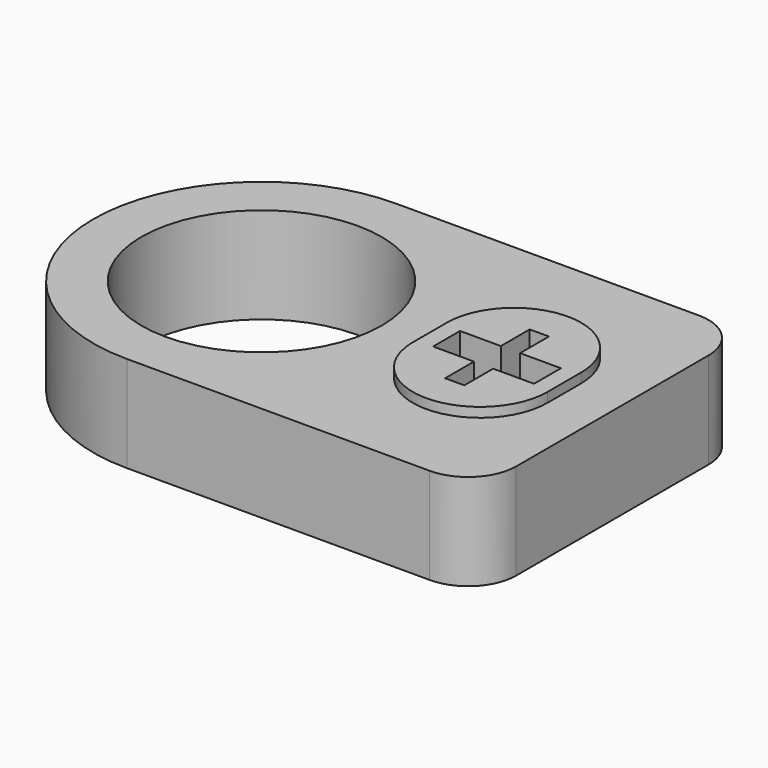
from build123d import *

# Parameters (mm, degrees)
F0_R     = 12.5
F1_DEPTH = 10
F3_DEPTH = 1
F4_DEPTH = 9


with BuildPart() as f1:
    # F0 (on Top) → F1 (new body)
    with BuildSketch(Plane.XY):
        with BuildLine():
            ThreePointArc((0, 17.5), (5.1256313292, 5.1256313292), (17.5, 0))
            Line((17.5, 0), (49, 0))
            ThreePointArc((49, 0), (52.5355339059, 1.4644660941), (54, 5))
            Line((54, 5), (54, 30))
            ThreePointArc((54, 30), (52.5355339059, 33.5355339059), (49, 35))
            Line((49, 35), (17.5, 35))
            ThreePointArc((17.5, 35), (5.1256313292, 29.8743686708), (0, 17.5))
        make_face()
        with Locations((17.5, 17.5)):
            Circle(F0_R, mode=Mode.SUBTRACT)
    extrude(amount=F1_DEPTH)

    # F2 (on face) → F3 (join)
    with BuildSketch(Plane.XY.offset(10)):
        with BuildLine():
            ThreePointArc((49, 19.7), (42.1277095354, 26.6988349227), (35.0046599215, 19.9553765589))
            Line((35.0046599215, 19.9553765589), (35.0046599215, 19.4446234411))
            Line((35.0046599215, 19.4446234411), (35.0046599215, 17.5))
            Line((35.0046599215, 17.5), (35.0046599215, 15.5553765589))
            Line((35.0046599215, 15.5553765589), (35.0046599215, 15.0446234411))
            ThreePointArc((35.0046599215, 15.0446234411), (42.1277095354, 8.3011650773), (49, 15.3))
            Line((49, 15.3), (49, 17.5))
            Line((49, 17.5), (49, 19.7))
        make_face()
        Polygon((41, 23), (43, 23), (43, 19.25), (47.25, 19.25), (47.25, 15.75), (43, 15.75), (43, 12), (41, 12), (41, 15.75), (36.75, 15.75), (36.75, 19.25), (41, 19.25), align=None, mode=Mode.SUBTRACT)
    extrude(amount=F3_DEPTH)

    # F4 (cut): a face of the model
    f4_faces = [f1.faces().sort_by_distance(p)[0] for p in [
        (42, 17.5, 10),
    ]]
    extrude(f4_faces, amount=-F4_DEPTH, mode=Mode.SUBTRACT)


solid = f1.part
